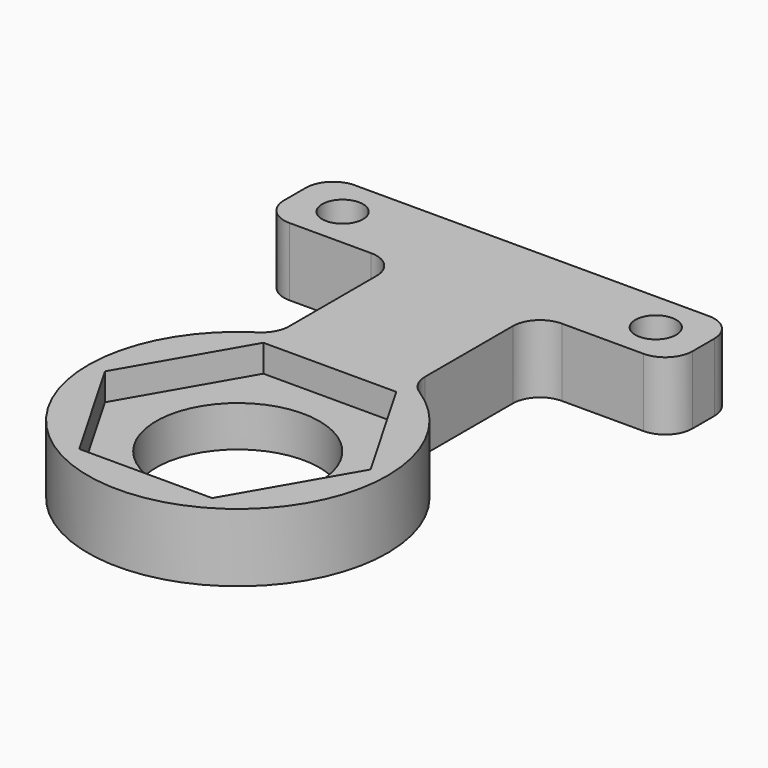
from build123d import *

# Parameters (mm, degrees)
SKETCH_R     = 1.5
SKETCH_R_2   = 6
PAD_DEPTH    = 5
POCKET_DEPTH = 2
FILLET_R     = 2


with BuildPart() as part:
    # Sketch → Pad (new body)
    with BuildSketch(Plane.XY):
        with BuildLine():
            Line((-15, -3), (-5, -3))
            Line((-5, -3), (-5, -14.202041))
            ThreePointArc((-5, -14.202041), (0, -35), (5, -14.202041))
            Line((5, -14.202041), (5, -3))
            Line((5, -3), (15, -3))
            Line((15, -3), (15, 3))
            Line((15, 3), (-15, 3))
            Line((-15, 3), (-15, -3))
        make_face()
        with Locations((11.5, 0)):
            Circle(SKETCH_R, mode=Mode.SUBTRACT)
        with Locations((-11.5, 0)):
            Circle(SKETCH_R, mode=Mode.SUBTRACT)
        with Locations((0, -24)):
            Circle(SKETCH_R_2, mode=Mode.SUBTRACT)
    extrude(amount=PAD_DEPTH)

    # Sketch001 → Pocket (cut)
    with BuildSketch(Plane.XY.offset(5)):
        Polygon((4.87861, -32.45), (9.75722, -24), (4.87861, -15.55), (-4.87861, -15.55), (-9.75722, -24), (-4.87861, -32.45), align=None)
    extrude(amount=-POCKET_DEPTH, mode=Mode.SUBTRACT)

    # Fillet
    fillet_edges = [part.edges().sort_by_distance(p)[0] for p in [
        (15, 3, 2.5),
        (15, -3, 2.5),
        (-15, 3, 2.5),
        (-15, -3, 2.5),
        (-5, -3, 2.5),
        (5, -3, 2.5),
        (5, -14.202041, 2.5),
        (-5, -14.202041, 2.5),
    ]]
    fillet(fillet_edges, radius=FILLET_R)


solid = part.part
